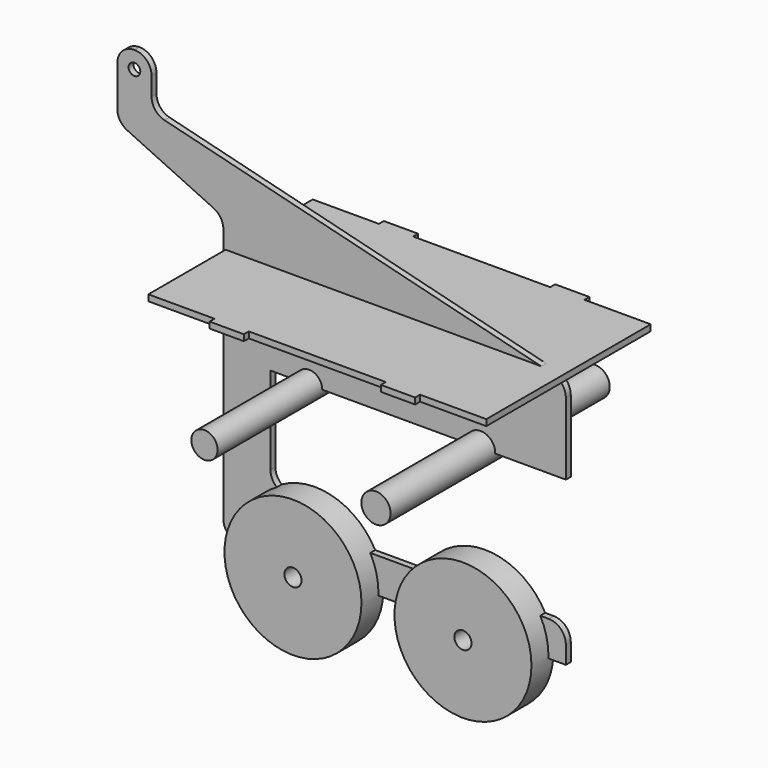
from build123d import *

# Parameters (mm, degrees)
F0_R     = 2.5
F0_W     = 1.8
F0_H     = 10
F0_W_2   = 10
F0_H_2   = 1.8
F0_R_2   = 1.707
F1_DEPTH = 1.8
F2_R     = 3.830747
F2_R_2   = 4.260889
F3_DEPTH = 40
F5_DEPTH = 1.8
F6_R     = 20
F6_R_2   = 2.5
F7_DEPTH = 8
F8_DEPTH = 8


with BuildPart() as f1:
    # F0 (on Front) → F1 (new body)
    with BuildSketch(Plane.XZ):
        with BuildLine():
            Line((35, -25), (50, -25))
            Line((50, -25), (50, -3.903882))
            ThreePointArc((50, -3.903882), (48.941027, -0.826821), (46.212678, 0.94683))
            Line((46.212678, 0.94683), (-43.787322, 23.44683))
            Line((-43.787322, 23.44683), (-67.186507, 29.296627))
            ThreePointArc((-67.186507, 29.296627), (-69.914856, 31.070278), (-70.973829, 34.147339))
            Line((-70.973829, 34.147339), (-70.973829, 39.503149))
            ThreePointArc((-70.973829, 39.503149), (-72.438295, 43.038683), (-75.973829, 44.503149))
            ThreePointArc((-75.973829, 44.503149), (-79.509363, 43.038683), (-80.973829, 39.503149))
            Line((-80.973829, 39.503149), (-80.973829, 27.684096))
            ThreePointArc((-80.973829, 27.684096), (-80.192469, 25.000242), (-78.0926, 23.15521))
            Line((-78.0926, 23.15521), (-52.881229, 11.360454))
            ThreePointArc((-52.881229, 11.360454), (-50.78136, 9.515422), (-50, 6.831568))
            Line((-50, 6.831568), (-50, -15))
            Line((-50, -15), (-50, -25))
            Line((-50, -25), (-50, -67.612971))
            ThreePointArc((-50, -67.612971), (-48.535534, -71.148505), (-45, -72.612971))
            Line((-45, -72.612971), (-30, -72.612971))
            ThreePointArc((-30, -72.612971), (-25, -77.612971), (-20, -72.612971))
            Line((-20, -72.612971), (20, -72.612971))
            ThreePointArc((20, -72.612971), (25, -77.612971), (30, -72.612971))
            Line((30, -72.612971), (50, -72.612971))
            Line((50, -72.612971), (50, -67.397439))
            ThreePointArc((50, -67.397439), (48.535534, -63.861905), (45, -62.397439))
            Line((45, -62.397439), (-22.163229, -62.397439))
            ThreePointArc((-22.163229, -62.397439), (-23.756557, -62.136775), (-25.183755, -61.381962))
            Line((-25.183755, -61.381962), (-34.283597, -54.483693))
            ThreePointArc((-34.283597, -54.483693), (-35.74094, -52.723734), (-36.263071, -50.49917))
            Line((-36.263071, -50.49917), (-36.263071, -25))
            Line((-36.263071, -25), (-35, -25))
            Line((-35, -25), (35, -25))
        make_face()
        with Locations((-25, -72.612971)):
            Circle(F0_R, mode=Mode.SUBTRACT)
        with Locations((25, -72.612971)):
            Circle(F0_R, mode=Mode.SUBTRACT)
        with Locations((-46.992358, -6.311593)):
            Rectangle(F0_W, F0_H, mode=Mode.SUBTRACT)
        with Locations((-25, -15)):
            Rectangle(F0_W_2, F0_H_2, mode=Mode.SUBTRACT)
        with Locations((-75.973829, 39.503149)):
            Circle(F0_R_2, mode=Mode.SUBTRACT)
        with Locations((25, -15)):
            Rectangle(F0_W_2, F0_H_2, mode=Mode.SUBTRACT)
    extrude(amount=F1_DEPTH)

    # F6 (on Front) → F7 (join)
    with BuildSketch(Plane.XZ):
        with Locations((24.920197, -71.8906)):
            Circle(F6_R)
        with Locations((24.920197, -71.8906)):
            Circle(F6_R_2, mode=Mode.SUBTRACT)
    extrude(amount=F7_DEPTH)

    # F6 (on Front) → F8 (join)
    with BuildSketch(Plane.XZ):
        with Locations((-24.717046, -71.8906)):
            Circle(F6_R)
        with Locations((-24.717046, -71.8906)):
            Circle(F6_R_2, mode=Mode.SUBTRACT)
    extrude(amount=F8_DEPTH)


with BuildPart() as f3:
    # F2 (on Front) → F3 (new body, symmetric)
    with BuildSketch(Plane.XZ):
        with Locations((-24.960551, -24.941267)):
            Circle(F2_R)
        with Locations((25.117559, -24.841683)):
            Circle(F2_R_2)
    extrude(amount=F3_DEPTH, both=True)


with BuildPart() as f5:
    # F4 (on Top) → F5 (new body)
    with BuildSketch(Plane.XY):
        Polygon((-30.017117, 30), (-49.342186, 30), (-49.342186, -30), (-30.017117, -30), (-30.017117, -31.8), (-20.017117, -31.8), (-20.017117, -30), (19.998559, -30), (19.998559, -31.8), (29.998559, -31.8), (29.998559, -30), (49.342186, -30), (49.342186, 30), (29.998559, 30), (29.998559, 31.8), (19.998559, 31.8), (19.998559, 30), (-20.017117, 30), (-20.017117, 31.8), (-30.017117, 31.8), align=None)
    extrude(amount=F5_DEPTH)


solid = Compound([f1.part, f3.part, f5.part])
